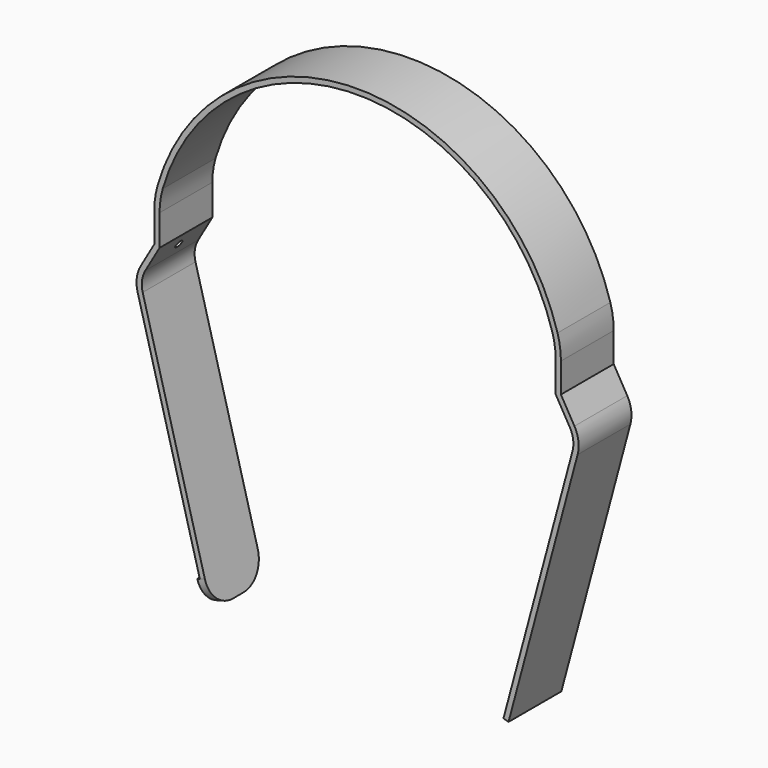
from build123d import *

# Parameters (mm, degrees)
F1_DEPTH = 25
F2_R     = 10
F3_R     = 1.5
F4_DEPTH = 25
F6_DEPTH = 3


with BuildPart() as f1:
    # F0 (on Front) → F1 (new body)
    with BuildSketch(Plane.XZ):
        with BuildLine():
            ThreePointArc((-73.8, 4.65), (-46.125, 44.625), (0, 60))
            Line((0, 60), (0, 62))
            ThreePointArc((0, 62), (-47.325, 46.225), (-75.72, 5.21))
            ThreePointArc((-75.72, 5.21), (-76.6783837972, 0.7754833996), (-77, -3.75))
            Line((-77, -3.75), (-77, -14.9147645484))
            Line((-77, -14.9147645484), (-82.1204376266, -23.7836226747))
            ThreePointArc((-82.1204376266, -23.7836226747), (-83.6254711177, -28.217308368), (-83.3192426967, -32.8894512159))
            Line((-83.3192426967, -32.8894512159), (-57.1598488652, -130.5176380902))
            Line((-57.1598488652, -130.5176380902), (-55.2279972126, -130))
            Line((-55.2279972126, -130), (-81.3873910441, -32.3718131257))
            ThreePointArc((-81.3873910441, -32.3718131257), (-81.6425813949, -28.4783607525), (-80.388386819, -24.7836226747))
            Line((-80.388386819, -24.7836226747), (-75, -15.4506629333))
            Line((-75, -15.4506629333), (-75, -3.75))
            ThreePointArc((-75, -3.75), (-74.6984848098, 0.4926406871), (-73.8, 4.65))
        make_face()
        with BuildLine():
            Line((0, 62), (0, 60))
            ThreePointArc((0, 60), (46.125, 44.625), (73.8, 4.65))
            ThreePointArc((73.8, 4.65), (74.6984848098, 0.4926406871), (75, -3.75))
            Line((75, -3.75), (75, -15.4506629333))
            Line((75, -15.4506629333), (80.388386819, -24.7836226747))
            ThreePointArc((80.388386819, -24.7836226747), (81.6425813949, -28.4783607525), (81.3873910441, -32.3718131257))
            Line((81.3873910441, -32.3718131257), (55.2279972126, -130))
            Line((55.2279972126, -130), (57.1598488652, -130.5176380902))
            Line((57.1598488652, -130.5176380902), (83.3192426967, -32.8894512159))
            ThreePointArc((83.3192426967, -32.8894512159), (83.6254711177, -28.217308368), (82.1204376266, -23.7836226747))
            Line((82.1204376266, -23.7836226747), (77, -14.9147645484))
            Line((77, -14.9147645484), (77, -3.75))
            ThreePointArc((77, -3.75), (76.6783837972, 0.7754833996), (75.72, 5.21))
            ThreePointArc((75.72, 5.21), (47.325, 46.225), (0, 62))
        make_face()
    extrude(amount=F1_DEPTH)

    # F2
    f2_edges = [f1.edges().sort_by_distance(p)[0] for p in [
        (-56.193923, -25, -130.258819),
        (-56.193923, 0, -130.258819),
    ]]
    fillet(f2_edges, radius=F2_R)

    # F3 (on face) → F4 (cut)
    with BuildSketch(Plane(origin=(-49.5596666972, 0, 28.6132869086), x_dir=(0, 1, 0), z_dir=(0.8660254038, 0, -0.5))):
        with Locations((-12.5, -56.2690534246)):
            Circle(F3_R)
    extrude(amount=-F4_DEPTH, mode=Mode.SUBTRACT)

    # F5 (on face) → F6 (join)
    with BuildSketch(Plane(origin=(-84.0284228994, 0, -22.5153480572), x_dir=(0, 1, 0), z_dir=(0.9659258263, 0, 0.2588190451))):
        with BuildLine():
            Line((0, -101.2762999161), (-25, -101.2762999161))
            ThreePointArc((-25, -101.2762999161), (-22.0710678119, -108.347367728), (-15, -111.2762999161))
            Line((-15, -111.2762999161), (-10, -111.2762999161))
            ThreePointArc((-10, -111.2762999161), (-2.9289321881, -108.347367728), (0, -101.2762999161))
        make_face()
    extrude(amount=-F6_DEPTH)


solid = f1.part
